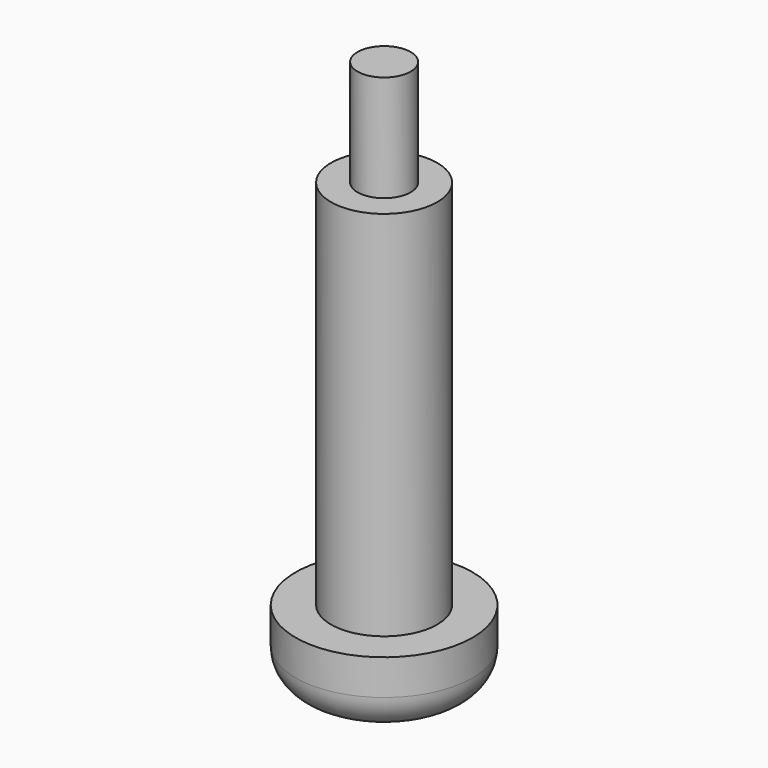
from build123d import *

# Parameters (mm, degrees)
SKETCH_R     = 2.5
PAD_DEPTH    = 2
FILLET_R     = 1
SKETCH001_R  = 1.5
PAD001_DEPTH = 10.5
SKETCH002_R  = 0.75
PAD002_DEPTH = 3


with BuildPart() as part:
    # Sketch → Pad (new body)
    with BuildSketch(Plane.XY):
        Circle(SKETCH_R)
    extrude(amount=PAD_DEPTH)

    # Fillet
    fillet_edges = [part.edges().sort_by_distance(p)[0] for p in [
        (-2.5, 0, 0),
    ]]
    fillet(fillet_edges, radius=FILLET_R)

    # Sketch001 (on DatumPlane) → Pad001 (join)
    with BuildSketch(Plane.XY.offset(2)):
        Circle(SKETCH001_R)
    extrude(amount=PAD001_DEPTH)

    # Sketch002 (on DatumPlane) → Pad002 (join)
    with BuildSketch(Plane.XY.offset(12.5)):
        Circle(SKETCH002_R)
    extrude(amount=PAD002_DEPTH)


solid = part.part
